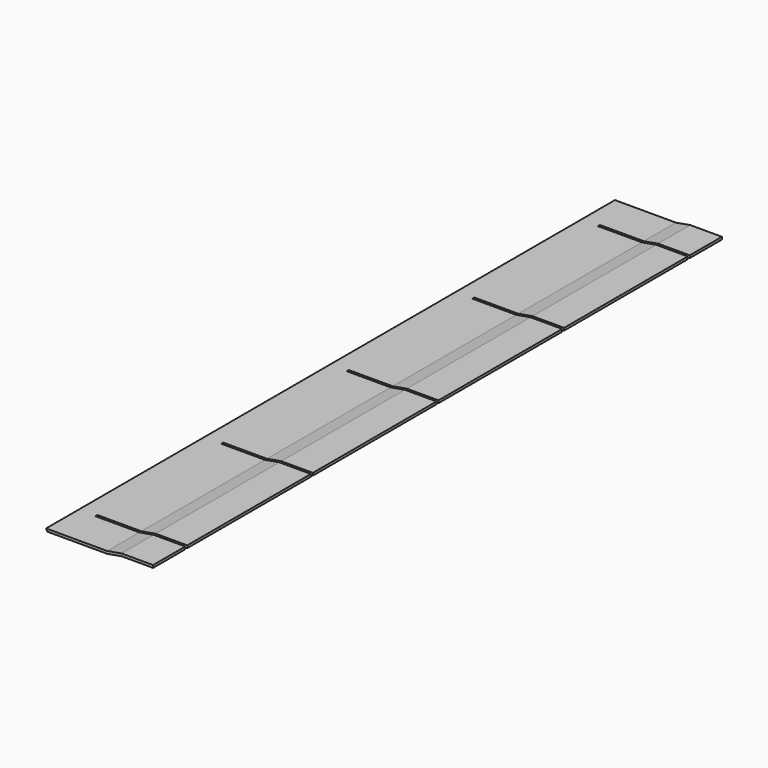
from build123d import *

# Parameters (mm, degrees)
F1_DEPTH      = 1132
F2_W          = 143
F2_H          = 4
F3_DEPTH      = 4.001
F3_DEPTH_BACK = 4.001


with BuildPart() as f1:
    # F0 (on Front) → F1 (new body)
    with BuildSketch(Plane.XZ):
        Polygon((286, 4), (336, 4), (336, 8), (285.6500453459, 8), (262.9649180674, 4), (165.6431457505, 4), (167.3, 0), (263.3148727215, 0), align=None)
    extrude(amount=-F1_DEPTH)

    # F2 (on face) → F3 (cut, two sides)
    with BuildSketch(Plane.XY.offset(4)) as f3_sk:
        with Locations((264.5, 66)):
            Rectangle(F2_W, F2_H)
        with Locations((264.5, 316)):
            Rectangle(F2_W, F2_H)
        with Locations((264.5, 566)):
            Rectangle(F2_W, F2_H)
        with Locations((264.5, 816)):
            Rectangle(F2_W, F2_H)
        with Locations((264.5, 1066)):
            Rectangle(F2_W, F2_H)
    extrude(amount=-F3_DEPTH, mode=Mode.SUBTRACT)
    extrude(f3_sk.sketch, amount=F3_DEPTH_BACK, mode=Mode.SUBTRACT)


solid = f1.part
